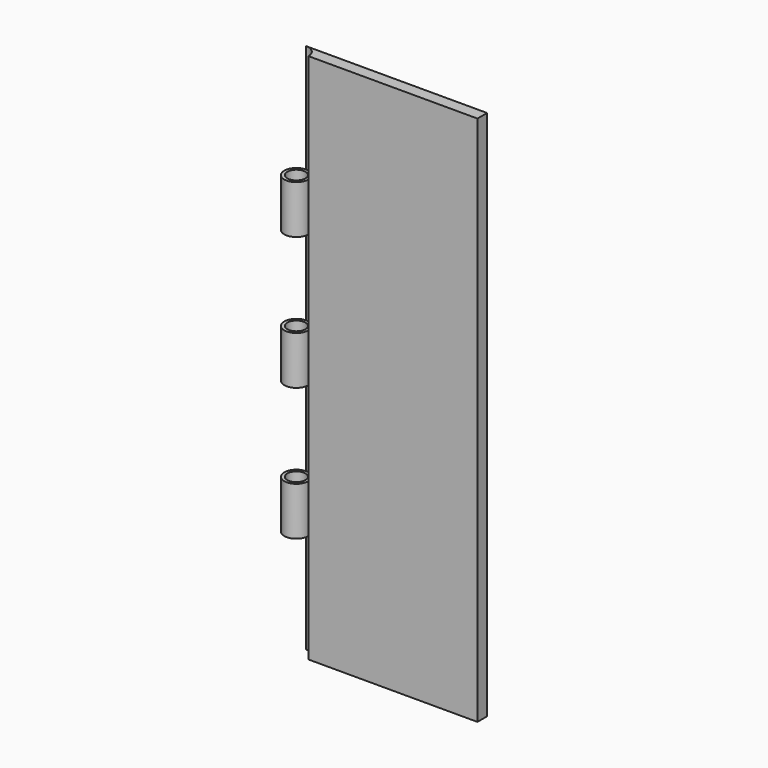
from build123d import *

# Parameters (mm, degrees)
F1_DEPTH  = 139.7
F3_DEPTH  = 139.701
F7_R      = 3.175
F8_DEPTH  = 6.35
F9_R      = 3.175
F10_DEPTH = 6.35
F11_R     = 3.175
F12_DEPTH = 6.35
F13_R     = 2.38125
F14_DEPTH = 139.701


with BuildPart() as f1:
    # F0 (on Top) → F1 (new body)
    with BuildSketch(Plane.XY):
        with BuildLine():
            Line((0, -3.175), (0, 0))
            Line((0, 0), (-47.625, 0))
            ThreePointArc((-47.625, 0), (-49.8700640303, -5.4200640303), (-44.45, -3.175))
            Line((-44.45, -3.175), (0, -3.175))
        make_face()
    extrude(amount=F1_DEPTH)

    # F2 (on face) → F3 (cut, through all)
    with BuildSketch(Plane.XY.offset(139.7)):
        with BuildLine():
            ThreePointArc((-47.625, 0), (-49.8700640303, -5.4200640303), (-44.45, -3.175))
            ThreePointArc((-44.45, -3.175), (-45.3799359697, -0.9299359697), (-47.625, 0))
        make_face()
    extrude(amount=-F3_DEPTH, mode=Mode.SUBTRACT)

    # F7 (on mid) → F8 (join, symmetric)
    with BuildSketch(Plane.XY.offset(104.775)):
        with Locations((-47.625, -3.175)):
            Circle(F7_R)
    extrude(amount=F8_DEPTH, both=True)

    # F9 (on mid) → F10 (join, symmetric)
    with BuildSketch(Plane.XY.offset(69.85)):
        with Locations((-47.625, -3.175)):
            Circle(F9_R)
    extrude(amount=F10_DEPTH, both=True)

    # F11 (on mid) → F12 (join, symmetric)
    with BuildSketch(Plane.XY.offset(34.925)):
        with Locations((-47.625, -3.175)):
            Circle(F11_R)
    extrude(amount=F12_DEPTH, both=True)

    # F13 (on face) → F14 (cut, through all)
    with BuildSketch(Plane.XY.offset(139.7)):
        with Locations((-47.625, -3.175)):
            Circle(F13_R)
    extrude(amount=-F14_DEPTH, mode=Mode.SUBTRACT)


solid = f1.part
